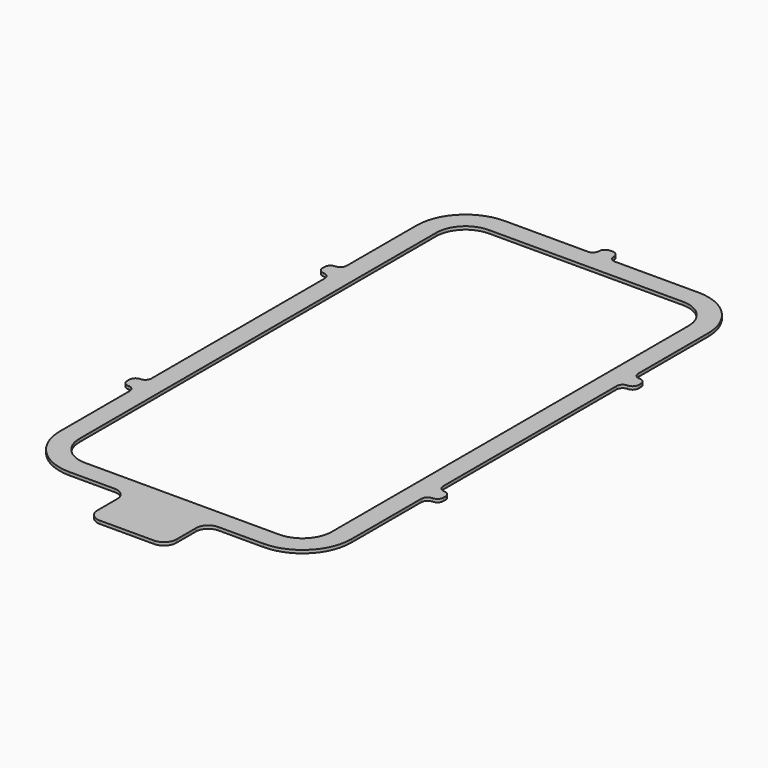
from build123d import *

# Parameters (mm, degrees)
F1_DEPTH = 1.5875


with BuildPart() as f1:
    # F0 (on Top) → F1 (new body)
    with BuildSketch(Plane.XY):
        with BuildLine():
            Line((-75.508881, 115), (-75.508881, 69.8754))
            ThreePointArc((-75.508881, 69.8754), (-76.438817, 67.630336), (-78.683881, 66.7004))
            ThreePointArc((-78.683881, 66.7004), (-80.928945, 65.770464), (-81.858881, 63.5254))
            Line((-81.858881, 63.5254), (-81.858881, 62.2554))
            ThreePointArc((-81.858881, 62.2554), (-80.928945, 60.010336), (-78.683881, 59.0804))
            ThreePointArc((-78.683881, 59.0804), (-76.438817, 58.150464), (-75.508881, 55.9054))
            Line((-75.508881, 55.9054), (-75.508881, 0))
            Line((-75.508881, 0), (-75.508881, -55.9054))
            ThreePointArc((-75.508881, -55.9054), (-76.438817, -58.150464), (-78.683881, -59.0804))
            ThreePointArc((-78.683881, -59.0804), (-80.928945, -60.010336), (-81.858881, -62.2554))
            Line((-81.858881, -62.2554), (-81.858881, -63.5254))
            ThreePointArc((-81.858881, -63.5254), (-80.928945, -65.770464), (-78.683881, -66.7004))
            ThreePointArc((-78.683881, -66.7004), (-76.438817, -67.630336), (-75.508881, -69.8754))
            Line((-75.508881, -69.8754), (-75.508881, -115))
            ThreePointArc((-75.508881, -115), (-68.139688, -132.790807), (-50.348881, -140.16))
            Line((-50.348881, -140.16), (-27.018881, -140.16))
            ThreePointArc((-27.018881, -140.16), (-22.528753, -142.019872), (-20.668881, -146.51))
            Line((-20.668881, -146.51), (-20.668881, -159.21))
            ThreePointArc((-20.668881, -159.21), (-18.809009, -163.700128), (-14.318881, -165.56))
            Line((-14.318881, -165.56), (13.621119, -165.56))
            ThreePointArc((13.621119, -165.56), (18.111247, -163.700128), (19.971119, -159.21))
            Line((19.971119, -159.21), (19.971119, -146.51))
            ThreePointArc((19.971119, -146.51), (21.830991, -142.019872), (26.321119, -140.16))
            Line((26.321119, -140.16), (49.651119, -140.16))
            ThreePointArc((49.651119, -140.16), (67.441926, -132.790807), (74.811119, -115))
            Line((74.811119, -115), (74.811119, -69.8754))
            ThreePointArc((74.811119, -69.8754), (75.741055, -67.630336), (77.986119, -66.7004))
            ThreePointArc((77.986119, -66.7004), (80.231183, -65.770464), (81.161119, -63.5254))
            Line((81.161119, -63.5254), (81.161119, -62.2554))
            ThreePointArc((81.161119, -62.2554), (80.231183, -60.010336), (77.986119, -59.0804))
            ThreePointArc((77.986119, -59.0804), (75.741055, -58.150464), (74.811119, -55.9054))
            Line((74.811119, -55.9054), (74.811119, 0))
            Line((74.811119, 0), (74.811119, 55.9054))
            ThreePointArc((74.811119, 55.9054), (75.741055, 58.150464), (77.986119, 59.0804))
            ThreePointArc((77.986119, 59.0804), (80.231183, 60.010336), (81.161119, 62.2554))
            Line((81.161119, 62.2554), (81.161119, 63.5254))
            ThreePointArc((81.161119, 63.5254), (80.231183, 65.770464), (77.986119, 66.7004))
            ThreePointArc((77.986119, 66.7004), (75.741055, 67.630336), (74.811119, 69.8754))
            Line((74.811119, 69.8754), (74.811119, 115))
            ThreePointArc((74.811119, 115), (67.441926, 132.790807), (49.651119, 140.16))
            Line((49.651119, 140.16), (6.636119, 140.16))
            ThreePointArc((6.636119, 140.16), (4.391055, 141.089936), (3.461119, 143.335))
            ThreePointArc((3.461119, 143.335), (2.531183, 145.580064), (0.286119, 146.51))
            Line((0.286119, 146.51), (-0.983881, 146.51))
            ThreePointArc((-0.983881, 146.51), (-3.228945, 145.580064), (-4.158881, 143.335))
            ThreePointArc((-4.158881, 143.335), (-5.088817, 141.089936), (-7.333881, 140.16))
            Line((-7.333881, 140.16), (-50.348881, 140.16))
            ThreePointArc((-50.348881, 140.16), (-68.139688, 132.790807), (-75.508881, 115))
        make_face()
        with BuildLine():
            Line((49.651119, -130), (-50.348881, -130))
            ThreePointArc((-50.348881, -130), (-60.955483, -125.606602), (-65.348881, -115))
            Line((-65.348881, -115), (-65.348881, 115))
            ThreePointArc((-65.348881, 115), (-60.955483, 125.606602), (-50.348881, 130))
            Line((-50.348881, 130), (49.651119, 130))
            ThreePointArc((49.651119, 130), (60.257721, 125.606602), (64.651119, 115))
            Line((64.651119, 115), (64.651119, -115))
            ThreePointArc((64.651119, -115), (60.257721, -125.606602), (49.651119, -130))
        make_face(mode=Mode.SUBTRACT)
    extrude(amount=F1_DEPTH)


solid = f1.part
